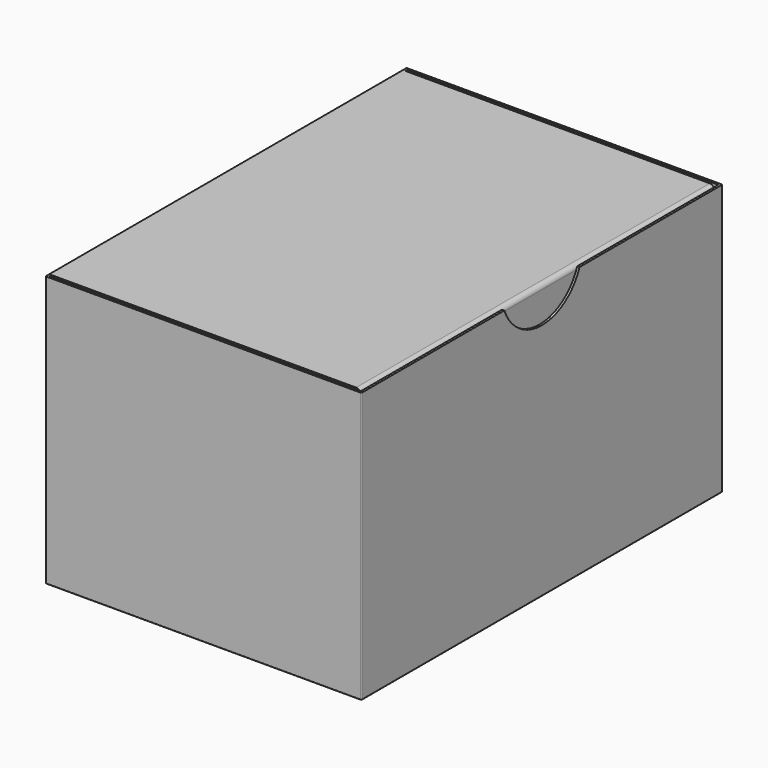
from build123d import *

# Parameters (mm, degrees)
F0_W     = 70
F0_H     = 100
F1_DEPTH = 60
F2_R     = 0.2
F3_T     = -0.5
F4_W     = 68.5
F4_H     = 98
F5_DEPTH = 0.5
F6_DEPTH = 10
F7_R     = 1
F9_DEPTH = 0.5


with BuildPart() as f1:
    # F0 (on Top) → F1 (new body)
    with BuildSketch(Plane.XY):
        Rectangle(F0_W, F0_H)
    extrude(amount=F1_DEPTH)

    # F2
    f2_edges = [f1.edges().sort_by_distance(p)[0] for p in [
        (35, -50, 30),
        (35, 0, 0),
        (0, 50, 0),
        (-35, 0, 0),
        (0, -50, 0),
        (35, 50, 30),
        (-35, 50, 30),
        (-35, -50, 30),
    ]]
    fillet(f2_edges, radius=F2_R)

    # F3
    f3_openings = [f1.faces().sort_by_distance(p)[0] for p in [
        (0, 0, 60),
    ]]
    offset(amount=F3_T, openings=f3_openings)

    # F4 (on face) → F5 (join)
    with BuildSketch(Plane.XY.offset(60)):
        with Locations((-0.25, 0)):
            Rectangle(F4_W, F4_H)
    extrude(amount=-F5_DEPTH)

    # F4 (on face) → F6 (join)
    with BuildSketch(Plane.XY.offset(60)):
        with Locations((-0.25, 0)):
            Rectangle(F4_W, F4_H)
    extrude(amount=-F6_DEPTH)

    # F7
    f7_edges = [f1.edges().sort_by_distance(p)[0] for p in [
        (34, 0, 60),
    ]]
    fillet(f7_edges, radius=F7_R)

    # F8 (on face) → F9 (cut)
    with BuildSketch(Plane.YZ.offset(35)):
        with BuildLine():
            Line((10.426263, 60), (-10.426263, 60))
            ThreePointArc((-10.426263, 60), (0, 52.880268), (10.426263, 60))
        make_face()
    extrude(amount=-F9_DEPTH, mode=Mode.SUBTRACT)


solid = f1.part
